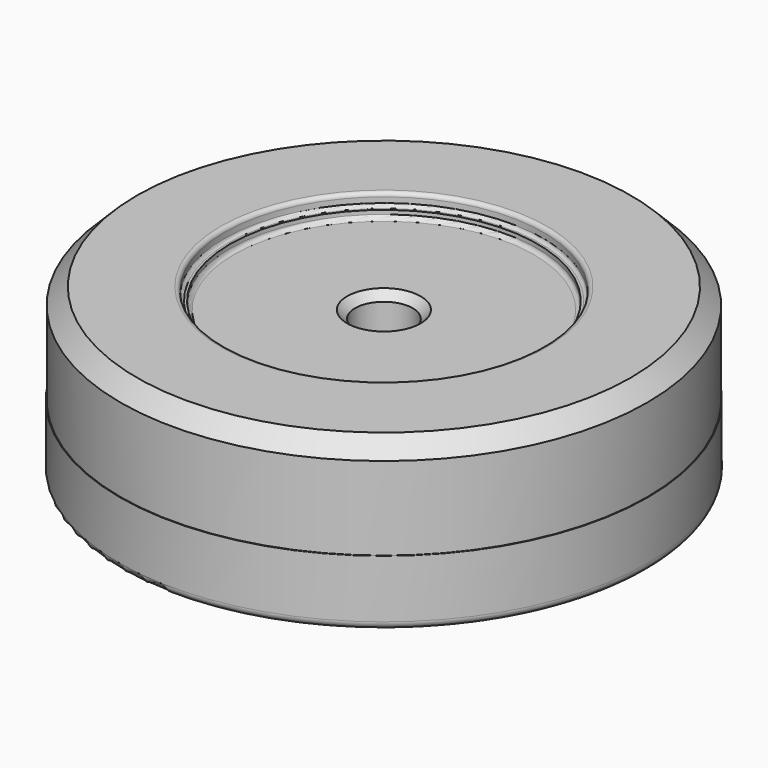
from build123d import *

# Parameters (mm, degrees)
F2_R     = 5.5499
F3_DEPTH = 31.878
F4_SIZE  = 1.524
F5_R     = 1.524


with BuildPart() as f1:
    # F0 (on Front) → F1 (revolve)
    with BuildSketch(Plane.XZ):
        with BuildLine():
            Line((-50.80635, 0), (0, 0))
            Line((0, 0), (0, 27.94))
            Line((0, 27.94), (-28.83281, 27.94))
            ThreePointArc((-28.83281, 27.94), (-29.371625, 28.163185), (-29.59481, 28.702))
            Line((-29.59481, 28.702), (-29.59481, 29.464))
            Line((-29.59481, 29.464), (-30.05074, 29.464))
            ThreePointArc((-30.05074, 29.464), (-30.481792, 29.642548), (-30.66034, 30.0736))
            Line((-30.66034, 30.0736), (-30.66034, 31.115))
            ThreePointArc((-30.66034, 31.115), (-30.883525, 31.653815), (-31.42234, 31.877))
            Line((-31.42234, 31.877), (-47.50435, 31.877))
            Line((-47.50435, 31.877), (-50.67935, 28.702))
            Line((-50.67935, 28.702), (-50.67935, 12.7))
            Line((-50.67935, 12.7), (-50.80635, 12.7))
            Line((-50.80635, 12.7), (-50.80635, 0))
        make_face()
    revolve(axis=Axis((0, 0, 13.97), (0, 0, -1)))

    # F2 (on Top) → F3 (cut, through all)
    with BuildSketch(Plane.XY):
        Circle(F2_R)
    extrude(amount=F3_DEPTH, mode=Mode.SUBTRACT)

    # F4
    f4_edges = [f1.edges().sort_by_distance(p)[0] for p in [
        (-5.5499, 0, 27.94),
        (-5.5499, 0, 0),
    ]]
    chamfer(f4_edges, length=F4_SIZE)

    # F5
    f5_edges = [f1.edges().sort_by_distance(p)[0] for p in [
        (50.80635, 0, 0),
    ]]
    fillet(f5_edges, radius=F5_R)


solid = f1.part
